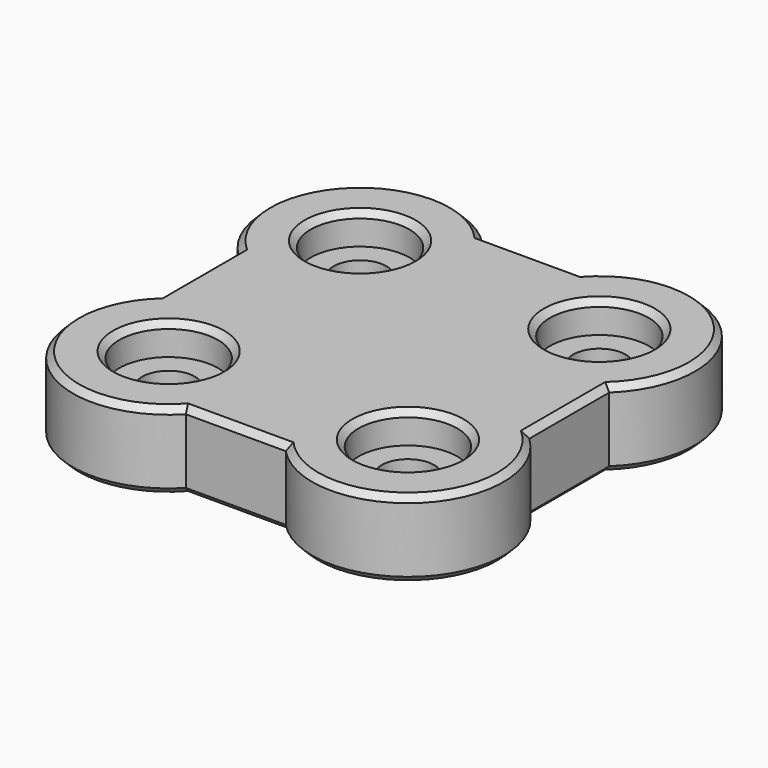
from build123d import *

# Parameters (mm, degrees)
CYLINDER001_R     = 1.7
CYLINDER001_DEPTH = 10
CYLINDER002_R     = 1.7
CYLINDER002_DEPTH = 10
CYLINDER003_R     = 1.7
CYLINDER003_DEPTH = 10
CYLINDER_R        = 1.7
CYLINDER_DEPTH    = 10
CYLINDER010_R     = 3.2
CYLINDER010_DEPTH = 10
CYLINDER009_R     = 3.2
CYLINDER009_DEPTH = 10
CYLINDER008_R     = 3.2
CYLINDER008_DEPTH = 10
CYLINDER011_R     = 3.2
CYLINDER011_DEPTH = 10
CYLINDER005_R     = 6.2
CYLINDER005_DEPTH = 5
CYLINDER006_R     = 6.2
CYLINDER006_DEPTH = 5
CYLINDER007_R     = 6.2
CYLINDER007_DEPTH = 5
BOX_W             = 24
BOX_H             = 24
BOX_DEPTH         = 5
CYLINDER004_R     = 6.2
CYLINDER004_DEPTH = 5
CHAMFER_SIZE      = 0.4
CHAMFER001_SIZE   = 0.4


with BuildPart() as cylinder001:
    # Cylinder001 → Cylinder001 (new body)
    with BuildSketch(Plane(origin=(-7.75, 7.75, 0), x_dir=(1, 0, 0), z_dir=(0, 0, 1))):
        Circle(CYLINDER001_R)
    extrude(amount=CYLINDER001_DEPTH)


with BuildPart() as cylinder002:
    # Cylinder002 → Cylinder002 (new body)
    with BuildSketch(Plane(origin=(7.75, -7.75, 0), x_dir=(1, 0, 0), z_dir=(0, 0, 1))):
        Circle(CYLINDER002_R)
    extrude(amount=CYLINDER002_DEPTH)


with BuildPart() as cylinder003:
    # Cylinder003 → Cylinder003 (new body)
    with BuildSketch(Plane(origin=(-7.75, -7.75, 0), x_dir=(1, 0, 0), z_dir=(0, 0, 1))):
        Circle(CYLINDER003_R)
    extrude(amount=CYLINDER003_DEPTH)


with BuildPart() as fusion002:
    # Cylinder → Cylinder (new body)
    with BuildSketch(Plane(origin=(7.75, 7.75, 0), x_dir=(1, 0, 0), z_dir=(0, 0, 1))):
        Circle(CYLINDER_R)
    extrude(amount=CYLINDER_DEPTH)

    # Fusion002: union Cylinder001, Cylinder002, Cylinder003
    add(cylinder001.part)
    add(cylinder002.part)
    add(cylinder003.part)


with BuildPart() as cylinder010:
    # Cylinder010 → Cylinder010 (new body)
    with BuildSketch(Plane(origin=(-7.75, 7.75, 0), x_dir=(1, 0, 0), z_dir=(0, 0, 1))):
        Circle(CYLINDER010_R)
    extrude(amount=CYLINDER010_DEPTH)


with BuildPart() as cylinder009:
    # Cylinder009 → Cylinder009 (new body)
    with BuildSketch(Plane(origin=(7.75, 7.75, 0), x_dir=(1, 0, 0), z_dir=(0, 0, 1))):
        Circle(CYLINDER009_R)
    extrude(amount=CYLINDER009_DEPTH)


with BuildPart() as cylinder008:
    # Cylinder008 → Cylinder008 (new body)
    with BuildSketch(Plane(origin=(-7.75, -7.75, 0), x_dir=(1, 0, 0), z_dir=(0, 0, 1))):
        Circle(CYLINDER008_R)
    extrude(amount=CYLINDER008_DEPTH)


with BuildPart() as fusion:
    # Cylinder011 → Cylinder011 (new body)
    with BuildSketch(Plane(origin=(7.75, -7.75, 0), x_dir=(1, 0, 0), z_dir=(0, 0, 1))):
        Circle(CYLINDER011_R)
    extrude(amount=CYLINDER011_DEPTH)

    # Fusion: union Cylinder010, Cylinder009, Cylinder008
    add(cylinder010.part)
    add(cylinder009.part)
    add(cylinder008.part)


with BuildPart() as fusion_1:
    # Fusion placement: moved
    add(fusion.part.moved(Location((0, 0, 3))))


with BuildPart() as cylinder005:
    # Cylinder005 → Cylinder005 (new body)
    with BuildSketch(Plane(origin=(7.75, -7.75, 0), x_dir=(1, 0, 0), z_dir=(0, 0, 1))):
        Circle(CYLINDER005_R)
    extrude(amount=CYLINDER005_DEPTH)


with BuildPart() as cylinder006:
    # Cylinder006 → Cylinder006 (new body)
    with BuildSketch(Plane(origin=(-7.75, 7.75, 0), x_dir=(1, 0, 0), z_dir=(0, 0, 1))):
        Circle(CYLINDER006_R)
    extrude(amount=CYLINDER006_DEPTH)


with BuildPart() as cylinder007:
    # Cylinder007 → Cylinder007 (new body)
    with BuildSketch(Plane(origin=(7.75, 7.75, 0), x_dir=(1, 0, 0), z_dir=(0, 0, 1))):
        Circle(CYLINDER007_R)
    extrude(amount=CYLINDER007_DEPTH)


with BuildPart() as cube:
    # Box → Box (new body)
    with BuildSketch(Plane(origin=(-12, -12, 0), x_dir=(1, 0, 0), z_dir=(0, 0, 1))):
        with Locations((12, 12)):
            Rectangle(BOX_W, BOX_H)
    extrude(amount=BOX_DEPTH)


with BuildPart() as chamfer001001:
    # Cylinder004 → Cylinder004 (new body)
    with BuildSketch(Plane(origin=(-7.75, -7.75, 0), x_dir=(1, 0, 0), z_dir=(0, 0, 1))):
        Circle(CYLINDER004_R)
    extrude(amount=CYLINDER004_DEPTH)

    # Fusion001: union Cylinder005, Cylinder006, Cylinder007, Cube
    add(cylinder005.part)
    add(cylinder006.part)
    add(cylinder007.part)
    add(cube.part)

    # Cut: cut Fusion
    add(fusion_1.part, mode=Mode.SUBTRACT)

    # Cut001: cut Fusion002
    add(fusion002.part, mode=Mode.SUBTRACT)

    # Chamfer
    chamfer_edges = [chamfer001001.edges().sort_by_distance(p)[0] for p in [
        (0, -12, 5),
        (-12.134062, -12.134062, 5),
        (-12, 0, 5),
        (-12.134062, 12.134062, 5),
        (0, 12, 5),
        (12, 0, 5),
        (-10.95, -7.75, 5),
        (4.55, -7.75, 5),
        (-10.95, 7.75, 5),
        (4.55, 7.75, 5),
        (10.036078, -13.513146, 5),
        (13.441661, -5.291342, 5),
        (13.441661, 5.291342, 5),
        (10.036078, 13.513146, 5),
    ]]
    chamfer(chamfer_edges, length=CHAMFER_SIZE)

    # Chamfer001
    chamfer001_edges = [chamfer001001.edges().sort_by_distance(p)[0] for p in [
        (0, -12, 0),
        (10.036078, -13.513146, 0),
        (13.441661, -5.291342, 0),
        (-12, 0, 0),
        (-12.134062, 12.134062, 0),
        (0, 12, 0),
        (10.036078, 13.513146, 0),
        (13.441661, 5.291342, 0),
        (12, 0, 0),
        (-12.134062, -12.134062, 0),
        (-9.45, -7.75, 0),
        (6.05, -7.75, 0),
        (-9.45, 7.75, 0),
        (6.05, 7.75, 0),
    ]]
    chamfer(chamfer001_edges, length=CHAMFER001_SIZE)


solid = chamfer001001.part
